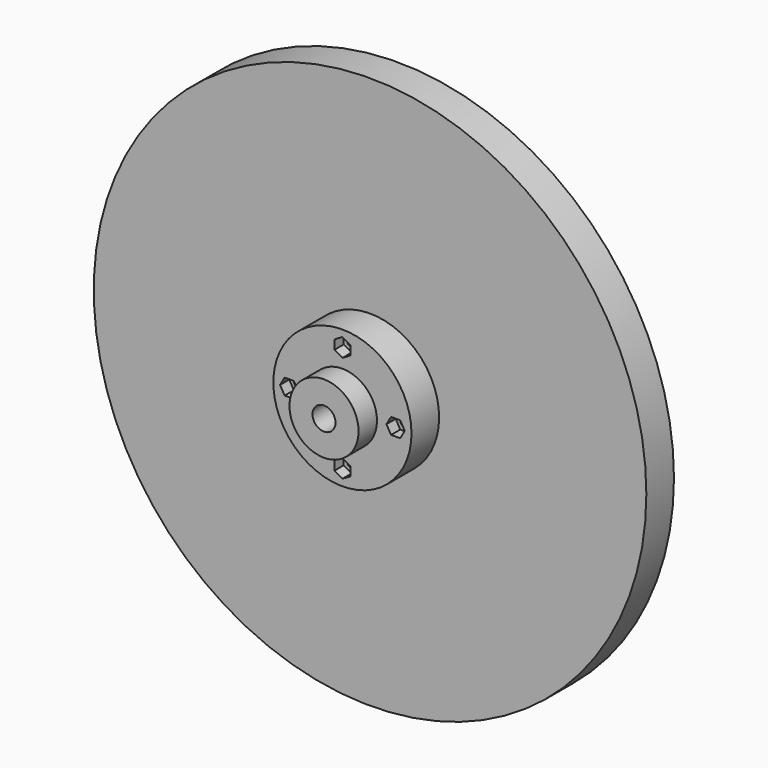
from build123d import *

# Parameters (mm, degrees)
F0_R     = 152.4
F0_R_2   = 38.1
F0_R_3   = 19.05
F0_R_4   = 2.54
F0_R_5   = 6.35
F1_DEPTH = 19.05
F2_DEPTH = 38.1
F3_DEPTH = 50.8
F4_DEPTH = 31.75


with BuildPart() as f1:
    # F0 (on Front) → F1 (new body)
    with BuildSketch(Plane.XZ):
        Circle(F0_R)
        Circle(F0_R_2, mode=Mode.SUBTRACT)
        Circle(F0_R_2)
        Polygon((4.366562, -26.801935), (4.385527, -31.854956), (0.018965, -34.39789), (-4.366562, -31.887804), (-4.385527, -26.834784), (-0.018965, -24.291849), align=None, mode=Mode.SUBTRACT)
        Polygon((-31.887804, 4.366562), (-26.834784, 4.385527), (-24.291849, 0.018965), (-26.801935, -4.366562), (-31.854956, -4.385527), (-34.39789, -0.018965), align=None, mode=Mode.SUBTRACT)
        Circle(F0_R_3, mode=Mode.SUBTRACT)
        Polygon((26.801935, 4.366562), (31.854956, 4.385527), (34.39789, 0.018965), (31.887804, -4.366562), (26.834784, -4.385527), (24.291849, -0.018965), align=None, mode=Mode.SUBTRACT)
        Polygon((-4.366562, 26.801935), (-4.385527, 31.854956), (-0.018965, 34.39789), (4.366562, 31.887804), (4.385527, 26.834784), (0.018965, 24.291849), align=None, mode=Mode.SUBTRACT)
        Polygon((0.018965, -34.39789), (4.385527, -31.854956), (4.366562, -26.801935), (-0.018965, -24.291849), (-4.385527, -26.834784), (-4.366562, -31.887804), align=None)
        with Locations((0, -29.34487)):
            Circle(F0_R_4, mode=Mode.SUBTRACT)
        Polygon((-24.291849, 0.018965), (-26.834784, 4.385527), (-31.887804, 4.366562), (-34.39789, -0.018965), (-31.854956, -4.385527), (-26.801935, -4.366562), align=None)
        with Locations((-29.34487, 0)):
            Circle(F0_R_4, mode=Mode.SUBTRACT)
        Polygon((-0.018965, 34.39789), (-4.385527, 31.854956), (-4.366562, 26.801935), (0.018965, 24.291849), (4.385527, 26.834784), (4.366562, 31.887804), align=None)
        with Locations((0, 29.34487)):
            Circle(F0_R_4, mode=Mode.SUBTRACT)
        Polygon((34.39789, 0.018965), (31.854956, 4.385527), (26.801935, 4.366562), (24.291849, -0.018965), (26.834784, -4.385527), (31.887804, -4.366562), align=None)
        with Locations((29.34487, 0)):
            Circle(F0_R_4, mode=Mode.SUBTRACT)
        Circle(F0_R_3)
        Circle(F0_R_5, mode=Mode.SUBTRACT)
        Circle(F0_R_5)
    extrude(amount=F1_DEPTH)


with BuildPart() as f2:
    # F0 (on Front) → F2 (new body)
    with BuildSketch(Plane.XZ):
        Circle(F0_R_2)
        Polygon((4.366562, -26.801935), (4.385527, -31.854956), (0.018965, -34.39789), (-4.366562, -31.887804), (-4.385527, -26.834784), (-0.018965, -24.291849), align=None, mode=Mode.SUBTRACT)
        Polygon((-31.887804, 4.366562), (-26.834784, 4.385527), (-24.291849, 0.018965), (-26.801935, -4.366562), (-31.854956, -4.385527), (-34.39789, -0.018965), align=None, mode=Mode.SUBTRACT)
        Circle(F0_R_3, mode=Mode.SUBTRACT)
        Polygon((26.801935, 4.366562), (31.854956, 4.385527), (34.39789, 0.018965), (31.887804, -4.366562), (26.834784, -4.385527), (24.291849, -0.018965), align=None, mode=Mode.SUBTRACT)
        Polygon((-4.366562, 26.801935), (-4.385527, 31.854956), (-0.018965, 34.39789), (4.366562, 31.887804), (4.385527, 26.834784), (0.018965, 24.291849), align=None, mode=Mode.SUBTRACT)
        Circle(F0_R_3)
        Circle(F0_R_5, mode=Mode.SUBTRACT)
    extrude(amount=F2_DEPTH)


with BuildPart() as f3:
    # F0 (on Front) → F3 (new body)
    with BuildSketch(Plane.XZ):
        Circle(F0_R_3)
        Circle(F0_R_5, mode=Mode.SUBTRACT)
    extrude(amount=F3_DEPTH)


with BuildPart() as f4:
    # F0 (on Front) → F4 (new body)
    with BuildSketch(Plane.XZ):
        Polygon((-24.291849, 0.018965), (-26.834784, 4.385527), (-31.887804, 4.366562), (-34.39789, -0.018965), (-31.854956, -4.385527), (-26.801935, -4.366562), align=None)
        with Locations((-29.34487, 0)):
            Circle(F0_R_4, mode=Mode.SUBTRACT)
        Polygon((0.018965, -34.39789), (4.385527, -31.854956), (4.366562, -26.801935), (-0.018965, -24.291849), (-4.385527, -26.834784), (-4.366562, -31.887804), align=None)
        with Locations((0, -29.34487)):
            Circle(F0_R_4, mode=Mode.SUBTRACT)
        Polygon((34.39789, 0.018965), (31.854956, 4.385527), (26.801935, 4.366562), (24.291849, -0.018965), (26.834784, -4.385527), (31.887804, -4.366562), align=None)
        with Locations((29.34487, 0)):
            Circle(F0_R_4, mode=Mode.SUBTRACT)
        Polygon((-0.018965, 34.39789), (-4.385527, 31.854956), (-4.366562, 26.801935), (0.018965, 24.291849), (4.385527, 26.834784), (4.366562, 31.887804), align=None)
        with Locations((0, 29.34487)):
            Circle(F0_R_4, mode=Mode.SUBTRACT)
    extrude(amount=F4_DEPTH)


solid = Compound([f1.part, f2.part, f3.part, f4.part])
